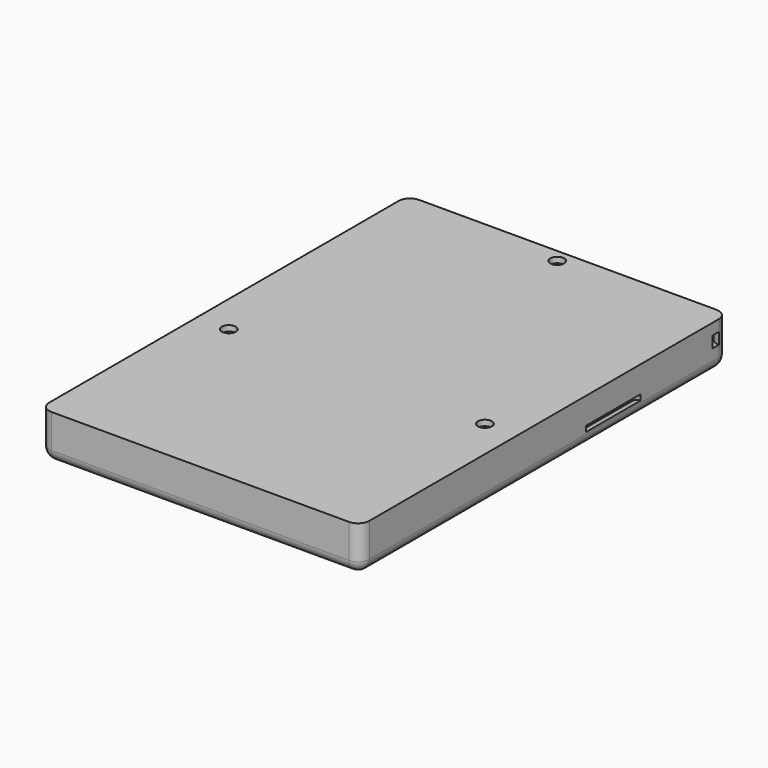
from build123d import *

# Parameters (mm, degrees)
EXTRUDE032_DEPTH           = 3
EXTRUDE033_DEPTH           = 3
CYLINDER057_R              = 4
CYLINDER057_DEPTH          = 12
CYLINDER055_R              = 4
CYLINDER055_DEPTH          = 12
CYLINDER053_R              = 1.85
CYLINDER053_DEPTH          = 12
CYLINDER054_R              = 1.85
CYLINDER054_DEPTH          = 12
CYLINDER056_R              = 4
CYLINDER056_DEPTH          = 12
CYLINDER052_R              = 1.85
CYLINDER052_DEPTH          = 12
EXTRUDE035_DEPTH           = 18
EXTRUDE035_PLACEMENT_ANGLE = 90
EXTRUDE034_DEPTH           = 18
EXTRUDE034_PLACEMENT_ANGLE = 90
BOX019_W                   = 75
BOX019_H                   = 150
BOX019_DEPTH               = 25
FILLET017_R                = 9.5
BOX018_W                   = 85
BOX018_H                   = 122
BOX018_DEPTH               = 12
FILLET016_R                = 3


with BuildPart() as batterybackattachpocket:
    # Sketch007 → Extrude032 (new body)
    with BuildSketch(Plane.XY):
        with BuildLine():
            ThreePointArc((-3, 0), (-2.12132, -2.12132), (0, -3))
            Line((0, -3), (0, -5))
            ThreePointArc((-5, 0), (-3.535534, -3.535534), (0, -5))
            Line((-5, 0), (-3, 0))
        make_face()
    extrude(amount=EXTRUDE032_DEPTH)


with BuildPart() as batterybackattachpocket_1:
    # Extrude032 placement: moved
    add(batterybackattachpocket.part.moved(Location((42.5, 45, -6))))


with BuildPart() as batterybackattachpocketleft:
    # Part__Mirroring004: instance of BatteryBackAttachPocket
    add(batterybackattachpocket_1.part.mirror(Plane(origin=(0, 0, 0), x_dir=(0, -1, 0), z_dir=(1, 0, 0))))


with BuildPart() as batterybackattachpocketright:
    # Sketch008 → Extrude033 (new body)
    with BuildSketch(Plane.XY):
        with BuildLine():
            ThreePointArc((-3, 0), (-2.12132, -2.12132), (0, -3))
            Line((0, -3), (0, -5))
            ThreePointArc((-5, 0), (-3.535534, -3.535534), (0, -5))
            Line((-5, 0), (-3, 0))
        make_face()
    extrude(amount=EXTRUDE033_DEPTH)


with BuildPart() as batterybackattachpocketright_1:
    # Extrude033 placement: moved
    add(batterybackattachpocketright.part.moved(Location((42.5, 45, -6))))


with BuildPart() as batterybackscrewcountersink3:
    # Cylinder057 → Cylinder057 (new body)
    with BuildSketch(Plane(origin=(34, -25, -1.5), x_dir=(-1, 0, 0), z_dir=(0, 0, -1))):
        Circle(CYLINDER057_R)
    extrude(amount=CYLINDER057_DEPTH)


with BuildPart() as batterybackscrewcountersink1:
    # Cylinder055 → Cylinder055 (new body)
    with BuildSketch(Plane(origin=(0, 41.5, -1.5), x_dir=(-1, 0, 0), z_dir=(0, 0, -1))):
        Circle(CYLINDER055_R)
    extrude(amount=CYLINDER055_DEPTH)


with BuildPart() as batterybackscrewhole2:
    # Cylinder053 → Cylinder053 (new body)
    with BuildSketch(Plane(origin=(-34, -25, 0), x_dir=(-1, 0, 0), z_dir=(0, 0, -1))):
        Circle(CYLINDER053_R)
    extrude(amount=CYLINDER053_DEPTH)


with BuildPart() as batterybackscrewhole3:
    # Cylinder054 → Cylinder054 (new body)
    with BuildSketch(Plane(origin=(34, -25, 0), x_dir=(-1, 0, 0), z_dir=(0, 0, -1))):
        Circle(CYLINDER054_R)
    extrude(amount=CYLINDER054_DEPTH)


with BuildPart() as batterybackscrewcountersink2:
    # Cylinder056 → Cylinder056 (new body)
    with BuildSketch(Plane(origin=(-34, -25, -1.5), x_dir=(-1, 0, 0), z_dir=(0, 0, -1))):
        Circle(CYLINDER056_R)
    extrude(amount=CYLINDER056_DEPTH)


with BuildPart() as batterymountingpockets:
    # Cylinder052 → Cylinder052 (new body)
    with BuildSketch(Plane(origin=(0, 41.5, 0), x_dir=(-1, 0, 0), z_dir=(0, 0, -1))):
        Circle(CYLINDER052_R)
    extrude(amount=CYLINDER052_DEPTH)

    # Fusion048: union BatteryBackScrewCountersink3, BatteryBackScrewCountersink1, BatteryBackScrewHole2, BatteryBackScrewHole3, BatteryBackScrewCountersink2
    add(batterybackscrewcountersink3.part)
    add(batterybackscrewcountersink1.part)
    add(batterybackscrewhole2.part)
    add(batterybackscrewhole3.part)
    add(batterybackscrewcountersink2.part)


with BuildPart() as batterybackstrappocketleft:
    # Sketch010 → Extrude035 (new body)
    with BuildSketch(Plane.XZ):
        with BuildLine():
            ThreePointArc((-3.5, 0), (-2.474874, -2.474874), (0, -3.5))
            Line((0, -3.5), (0, -5))
            ThreePointArc((-5, 0), (-3.535534, -3.535534), (0, -5))
            Line((-5, 0), (-3.5, 0))
        make_face()
    extrude(amount=-EXTRUDE035_DEPTH)


with BuildPart() as batterybackstrappocketleft_1:
    # Extrude035 placement: moved
    add(batterybackstrappocketleft.part.moved(Location((42.5, -2, -12))).rotate(Axis((42.5, -2, -12), (0, 1, 0)), EXTRUDE035_PLACEMENT_ANGLE))


with BuildPart() as batterybackstrappocket:
    # Sketch009 → Extrude034 (new body)
    with BuildSketch(Plane.XZ):
        with BuildLine():
            ThreePointArc((-3.5, 0), (-2.474874, -2.474874), (0, -3.5))
            Line((0, -3.5), (0, -5))
            ThreePointArc((-5, 0), (-3.535534, -3.535534), (0, -5))
            Line((-5, 0), (-3.5, 0))
        make_face()
    extrude(amount=-EXTRUDE034_DEPTH)


with BuildPart() as batterybackstrappocket_1:
    # Extrude034 placement: moved
    add(batterybackstrappocket.part.moved(Location((42.5, -2, -12))).rotate(Axis((42.5, -2, -12), (0, 1, 0)), EXTRUDE034_PLACEMENT_ANGLE))


with BuildPart() as batterybackstrappocketright:
    # Part__Mirroring005: instance of BatteryBackStrapPocket
    add(batterybackstrappocket_1.part.mirror(Plane(origin=(0, 0, 0), x_dir=(0, -1, 0), z_dir=(1, 0, 0))))


with BuildPart() as batterybackcombinedpockets:
    # Box019 → Box019 (new body)
    with BuildSketch(Plane(origin=(-37.5, -73, -29), x_dir=(1, 0, 0), z_dir=(0, 0, 1))):
        with Locations((37.5, 75)):
            Rectangle(BOX019_W, BOX019_H)
    extrude(amount=BOX019_DEPTH)

    # Fillet017
    fillet017_edges = [batterybackcombinedpockets.edges().sort_by_distance(p)[0] for p in [
        (-37.5, -73, -16.5),
        (-37.5, 2, -4),
        (-37.5, 77, -16.5),
        (-37.5, 2, -29),
        (37.5, -73, -16.5),
        (37.5, 2, -4),
        (37.5, 77, -16.5),
        (37.5, 2, -29),
        (0, -73, -29),
        (0, -73, -4),
        (0, 77, -29),
        (0, 77, -4),
    ]]
    fillet(fillet017_edges, radius=FILLET017_R)

    # Fusion049: union BatteryBackAttachPocketLeft, BatteryBackAttachPocketRight, BatteryMountingPockets, BatteryBackStrapPocketLeft, BatteryBackStrapPocketRight
    add(batterybackattachpocketleft.part)
    add(batterybackattachpocketright_1.part)
    add(batterymountingpockets.part)
    add(batterybackstrappocketleft_1.part)
    add(batterybackstrappocketright.part)


with BuildPart() as obj1:
    # Box018 → Box018 (new body)
    with BuildSketch(Plane(origin=(-42.5, -77, -12), x_dir=(1, 0, 0), z_dir=(0, 0, 1))):
        with Locations((42.5, 61)):
            Rectangle(BOX018_W, BOX018_H)
    extrude(amount=BOX018_DEPTH)

    # Fillet016
    fillet016_edges = [obj1.edges().sort_by_distance(p)[0] for p in [
        (-42.5, -77, -6),
        (-42.5, 45, -6),
        (-42.5, -16, -12),
        (42.5, -77, -6),
        (42.5, 45, -6),
        (42.5, -16, -12),
        (0, -77, -12),
        (0, 45, -12),
    ]]
    fillet(fillet016_edges, radius=FILLET016_R)

    # Cut013: cut BatteryBackCombinedPockets
    add(batterybackcombinedpockets.part, mode=Mode.SUBTRACT)


solid = obj1.part
